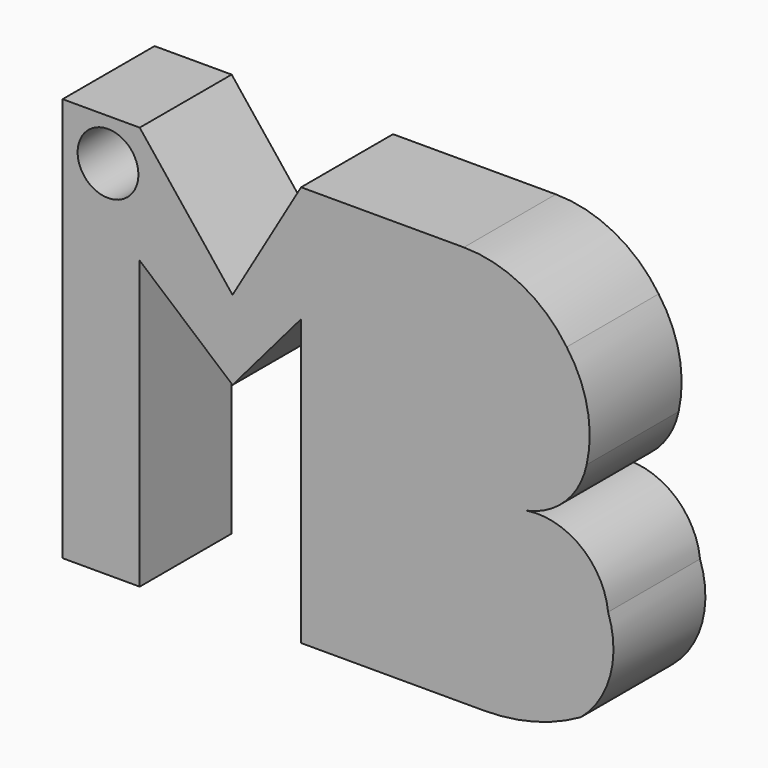
from build123d import *

# Parameters (mm, degrees)
F1_DEPTH = 25.4
F2_R     = 6.716899
F3_DEPTH = 127


with BuildPart() as f1:
    # F0 (on Front) → F1 (new body)
    with BuildSketch(Plane.XZ):
        with BuildLine():
            Line((-35.665207, 43.39793), (-52.70876, 43.39793))
            Line((-52.70876, 43.39793), (-52.70876, -45.922898))
            Line((-52.70876, -45.922898), (-35.665207, -45.922898))
            Line((-35.665207, -45.922898), (-35.665207, 17.516982))
            Line((-35.665207, 17.516982), (-15.149822, 0))
            Line((-15.149822, 0), (0, 17.743035))
            Line((0, 17.743035), (0, -45.291658))
            Line((0, -45.291658), (40.399529, -45.291658))
            ThreePointArc((40.399529, -45.291658), (51.488685, -43.847265), (61.83785, -39.610472))
            ThreePointArc((61.83785, -39.610472), (68.347577, -29.346101), (67.858577, -17.20136))
            ThreePointArc((67.858577, -17.20136), (61.83785, -6.404388), (49.868163, -3.314024))
            ThreePointArc((49.868163, -3.314024), (58.459886, 1.350347), (63.124254, 9.942072))
            ThreePointArc((63.124254, 9.942072), (63.258051, 21.155608), (58.705557, 31.40432))
            ThreePointArc((58.705557, 31.40432), (48.828592, 40.215562), (35.980832, 43.39793))
            Line((35.980832, 43.39793), (0, 43.39793))
            Line((0, 43.39793), (-15.149822, 17.516982))
            Line((-15.149822, 17.516982), (-35.665207, 43.39793))
        make_face()
    extrude(amount=F1_DEPTH)

    # F2 (on face) → F3 (cut)
    with BuildSketch(Plane.XZ.offset(25.4)):
        with Locations((-42.673375, 34.143802)):
            Circle(F2_R)
    extrude(amount=-F3_DEPTH, mode=Mode.SUBTRACT)


solid = f1.part
